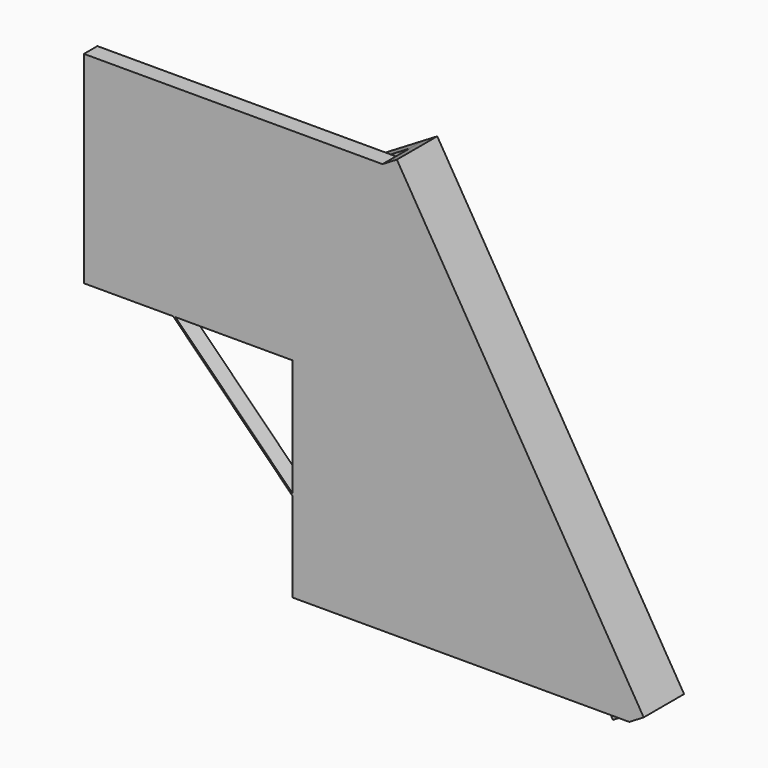
from build123d import *

# Parameters (mm, degrees)
F1_DEPTH = 10
F3_DEPTH = 30
F4_W     = 10
F4_H     = 284.7173312026
F5_DEPTH = 30


with BuildPart() as f1:
    # F0 (on Front) → F1 (new body)
    with BuildSketch(Plane.XZ):
        Polygon((-68, 120), (-68, 0), (-15, 0), (-40, 25), (-39.2928932188, 25.7071067812), (-13.5857864376, 0), (56, 0), (56, -69.5857864376), (85.8867522003, -99.4725386379), (85.1796454191, -100.1796454191), (56, -71), (56, -124.05038625), (256, -124.05038625), (109.3597338439, 120), align=None)
        Polygon((-40, 25), (-15, 0), (-13.5857864376, 0), (-39.2928932188, 25.7071067812), align=None)
        Polygon((-13.5857864376, 0), (-15, 0), (56, -71), (56, -69.5857864376), align=None)
        Polygon((56, -69.5857864376), (56, -71), (85.1796454191, -100.1796454191), (85.8867522003, -99.4725386379), align=None)
        Polygon((-68, 120), (-68, 0), (-15, 0), (-40, 25), (-39.2928932188, 25.7071067812), (-13.5857864376, 0), (56, 0), (56, -69.5857864376), (85.8867522003, -99.4725386379), (85.1796454191, -100.1796454191), (56, -71), (56, -124.05038625), (256, -124.05038625), (109.3597338439, 120), align=None)
    extrude(amount=F1_DEPTH)

    # F2 (on face) → F3 (join)
    with BuildSketch(Plane.XZ.offset(10)):
        Polygon((117.9314068509, 125.1503807491), (109.3597338439, 120), (256, -124.05038625), (264.571673007, -118.9000055009), align=None)
    extrude(amount=-F3_DEPTH)

    # F4 (on face) → F5 (join)
    with BuildSketch(Plane(origin=(133.3273650703, 0, 80.1111631094), x_dir=(0, -1, 0), z_dir=(-0.8571673007, 0, -0.5150380749))):
        with Locations((-15, -95.8230163087)):
            Rectangle(F4_W, F4_H)
    extrude(amount=F5_DEPTH)


solid = f1.part
